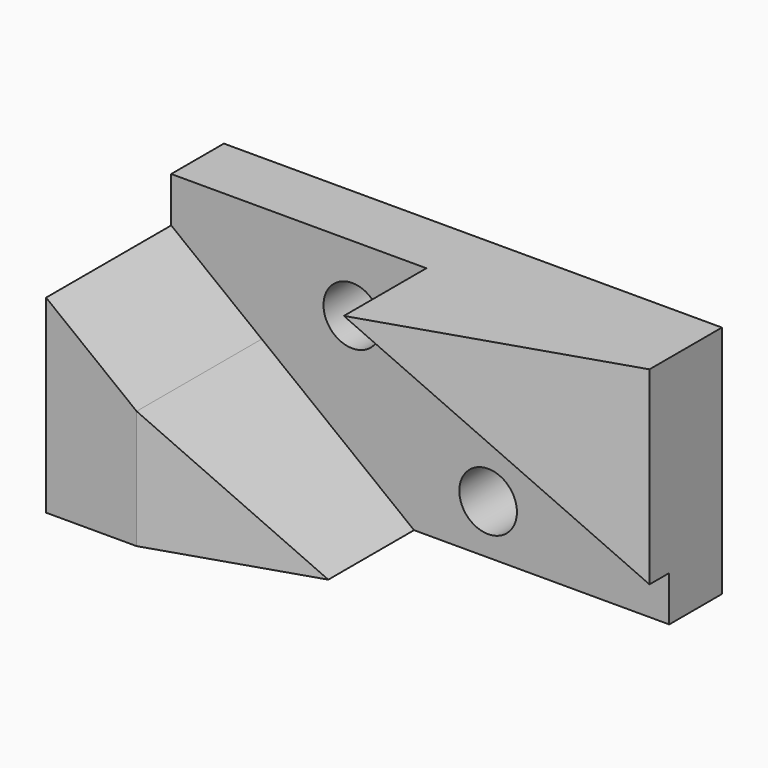
from build123d import *

# Parameters (mm, degrees)
F0_R          = 7
F1_DEPTH      = 38
F3_DEPTH      = 57
F4_DEPTH      = 54
F5_W          = 121
F5_H          = 16
F6_DEPTH      = 57
F7_DEPTH      = 54
F7_DEPTH_BACK = 38


with BuildPart() as f1:
    # F0 (on Front) → F1 (new body)
    with BuildSketch(Plane.XZ):
        Polygon((0, 46), (0, 0), (22, 0), (22, 28.847458), align=None)
        Polygon((22, 28.847458), (22, 0), (59, 0), align=None)
        Polygon((121, 57), (62, 57), (121, 11), align=None)
        Polygon((0, 57), (0, 46), (22, 28.847458), (59, 0), (121, 0), (121, 11), (62, 57), align=None)
        with Locations((77, 12)):
            Circle(F0_R, mode=Mode.SUBTRACT)
        with Locations((44, 41)):
            Circle(F0_R, mode=Mode.SUBTRACT)
    extrude(amount=-F1_DEPTH)

    # F2 (on face) → F3 (cut)
    with BuildSketch(Plane(origin=(0, 0, 0), x_dir=(1, 0, 0), z_dir=(0, 0, -1))):
        Polygon((121, 0), (22, 0), (121, -32), align=None)
    extrude(amount=-F3_DEPTH, mode=Mode.SUBTRACT)

    # F0 (on Front) → F4 (cut)
    with BuildSketch(Plane.XZ):
        Polygon((0, 57), (0, 46), (22, 28.847458), (59, 0), (121, 0), (121, 11), (62, 57), align=None)
        with Locations((77, 12)):
            Circle(F0_R, mode=Mode.SUBTRACT)
        with Locations((44, 41)):
            Circle(F0_R, mode=Mode.SUBTRACT)
    extrude(amount=-F4_DEPTH, mode=Mode.SUBTRACT)

    # F5 (on Top) → F6 (join)
    with BuildSketch(Plane.XY):
        with Locations((60.5, 46)):
            Rectangle(F5_W, F5_H)
    extrude(amount=F6_DEPTH)

    # F0 (on Front) → F7 (cut, two sides)
    with BuildSketch(Plane.XZ) as f7_sk:
        with Locations((44, 41)):
            Circle(F0_R)
        with Locations((77, 12)):
            Circle(F0_R)
    extrude(amount=-F7_DEPTH, mode=Mode.SUBTRACT)
    extrude(f7_sk.sketch, amount=-F7_DEPTH_BACK, mode=Mode.SUBTRACT)


solid = f1.part
